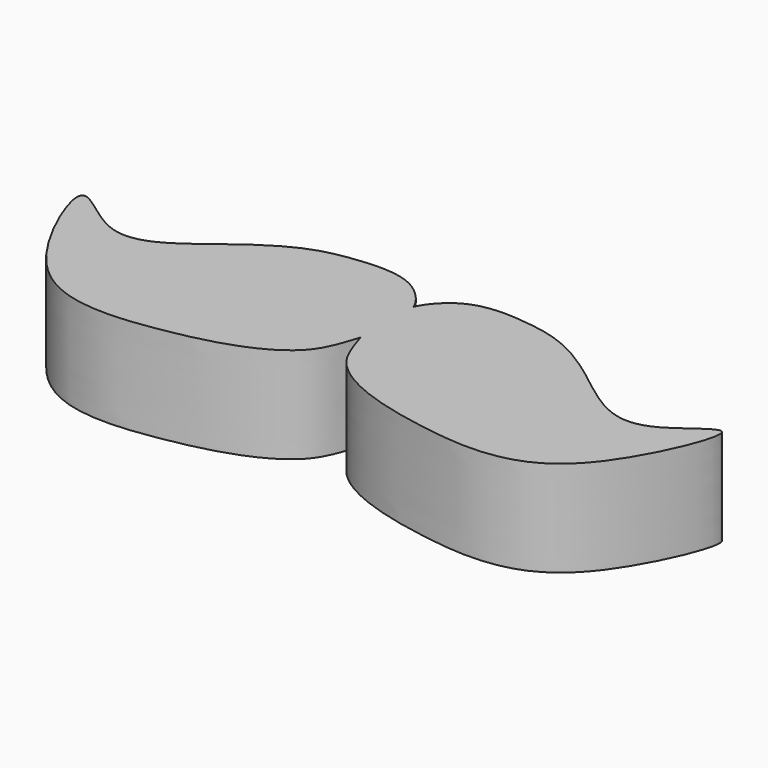
from build123d import *

# Parameters (mm, degrees)
F1_DEPTH = 38.1


with BuildPart() as f1:
    # F0 (on Top) → F1 (new body)
    with BuildSketch(Plane.XY):
        with BuildLine():
            add(Edge.make_bspline(
                [(0, -5.8624127563), (0.7472910701, -7.9620528049), (0.3999907445, -9.4412642035), (0, -11.4594598407)],
                knots=[0.9640106489, 0.9640106489, 0.9640106489, 0.9640106489, 1, 1, 1, 1], degree=3))
            Line((0, -11.4594598407), (0, -32.168533768))
            add(Edge.make_bspline(
                [(0, -32.168533768), (1.9723960152, -38.0064503979), (5.0700836383, -49.3861613239), (25.2187635234, -61.5151917389), (54.2514269573, -67.6890151725), (81.5551962957, -70.3825643715), (111.5462741452, -58.6807058516), (137.0004651754, 2.4195939949), (108.3199525391, -26.1372761303), (89.1736466738, -23.8060403006), (69.4234582826, -6.7621441105), (50.833322303, 5.0099678495), (33.2828444136, 8.3887052011), (10.9154788022, 9.3567065548), (1.2787422733, -2.2695710961), (0, -5.8624127563)],
                knots=[0, 0, 0, 0, 0.0629814129, 0.1340254633, 0.2173471228, 0.2954054815, 0.3837699559, 0.4839423428, 0.5531344437, 0.6194955271, 0.6963744355, 0.7674623155, 0.8316529781, 0.9024267408, 0.9640106489, 0.9640106489, 0.9640106489, 0.9640106489], degree=3))
        make_face()
        with BuildLine():
            add(Edge.make_bspline(
                [(0, -5.8624127563), (-0.7472910701, -7.9620528049), (-0.3999907445, -9.4412642035), (0, -11.4594598407)],
                knots=[0.9640106489, 0.9640106489, 0.9640106489, 0.9640106489, 1, 1, 1, 1], degree=3))
            add(Edge.make_bspline(
                [(0, -5.8624127563), (0.7472910701, -7.9620528049), (0.3999907445, -9.4412642035), (0, -11.4594598407)],
                knots=[0.9640106489, 0.9640106489, 0.9640106489, 0.9640106489, 1, 1, 1, 1], degree=3))
        make_face()
        with BuildLine():
            Line((0, -32.168533768), (0, -11.4594598407))
            add(Edge.make_bspline(
                [(0, -5.8624127563), (-0.7472910701, -7.9620528049), (-0.3999907445, -9.4412642035), (0, -11.4594598407)],
                knots=[0.9640106489, 0.9640106489, 0.9640106489, 0.9640106489, 1, 1, 1, 1], degree=3))
            add(Edge.make_bspline(
                [(0, -32.168533768), (-1.9723960152, -38.0064503979), (-5.0700836383, -49.3861613239), (-25.2187635234, -61.5151917389), (-54.2514269573, -67.6890151725), (-81.5551962957, -70.3825643715), (-111.5462741452, -58.6807058516), (-137.0004651754, 2.4195939949), (-108.3199525391, -26.1372761303), (-89.1736466738, -23.8060403006), (-69.4234582826, -6.7621441105), (-50.833322303, 5.0099678495), (-33.2828444136, 8.3887052011), (-10.9154788022, 9.3567065548), (-1.2787422733, -2.2695710961), (0, -5.8624127563)],
                knots=[0, 0, 0, 0, 0.0629814129, 0.1340254633, 0.2173471228, 0.2954054815, 0.3837699559, 0.4839423428, 0.5531344437, 0.6194955271, 0.6963744355, 0.7674623155, 0.8316529781, 0.9024267408, 0.9640106489, 0.9640106489, 0.9640106489, 0.9640106489], degree=3))
        make_face()
    extrude(amount=F1_DEPTH)


solid = f1.part
